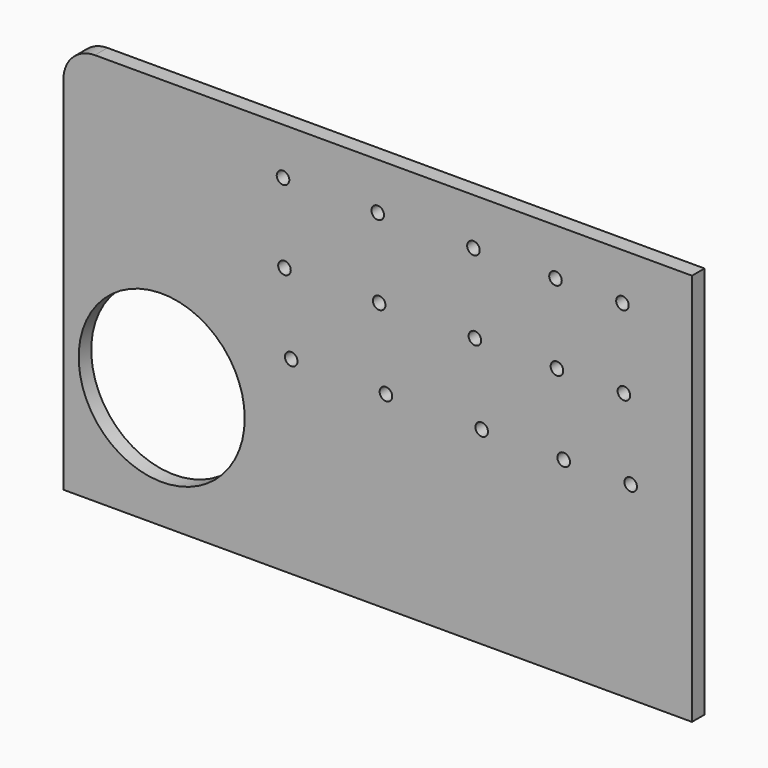
from build123d import *

# Parameters (mm, degrees)
F0_R     = 52.835876
F0_R_2   = 4
F1_DEPTH = 10


with BuildPart() as f1:
    # F0 (on Front) → F1 (new body)
    with BuildSketch(Plane.XZ):
        with BuildLine():
            Line((200, 125), (-180, 125))
            ThreePointArc((-180, 125), (-194.142136, 119.142136), (-200, 105))
            Line((-200, 105), (-200, -125))
            Line((-200, -125), (200, -125))
            Line((200, -125), (200, 125))
        make_face()
        with Locations((-137.476757, -47.528002)):
            Circle(F0_R, mode=Mode.SUBTRACT)
        with Locations((-55.033423, -4.654916)):
            Circle(F0_R_2, mode=Mode.SUBTRACT)
        with Locations((5.235739, -4.654916)):
            Circle(F0_R_2, mode=Mode.SUBTRACT)
        with Locations((66.157822, -4.654916)):
            Circle(F0_R_2, mode=Mode.SUBTRACT)
        with Locations((118.3732, -4.654916)):
            Circle(F0_R_2, mode=Mode.SUBTRACT)
        with Locations((160.996102, -4.654916)):
            Circle(F0_R_2, mode=Mode.SUBTRACT)
        with Locations((-59.337278, 45.036767)):
            Circle(F0_R_2, mode=Mode.SUBTRACT)
        with Locations((-60.269162, 95.248777)):
            Circle(F0_R_2, mode=Mode.SUBTRACT)
        with Locations((0.931884, 45.036767)):
            Circle(F0_R_2, mode=Mode.SUBTRACT)
        with Locations((61.853966, 45.036767)):
            Circle(F0_R_2, mode=Mode.SUBTRACT)
        with Locations((114.069345, 45.036767)):
            Circle(F0_R_2, mode=Mode.SUBTRACT)
        with Locations((156.692246, 45.036767)):
            Circle(F0_R_2, mode=Mode.SUBTRACT)
        with Locations((0, 95.248777)):
            Circle(F0_R_2, mode=Mode.SUBTRACT)
        with Locations((60.922083, 95.248777)):
            Circle(F0_R_2, mode=Mode.SUBTRACT)
        with Locations((113.137461, 95.248777)):
            Circle(F0_R_2, mode=Mode.SUBTRACT)
        with Locations((155.760363, 95.248777)):
            Circle(F0_R_2, mode=Mode.SUBTRACT)
    extrude(amount=F1_DEPTH)


solid = f1.part
